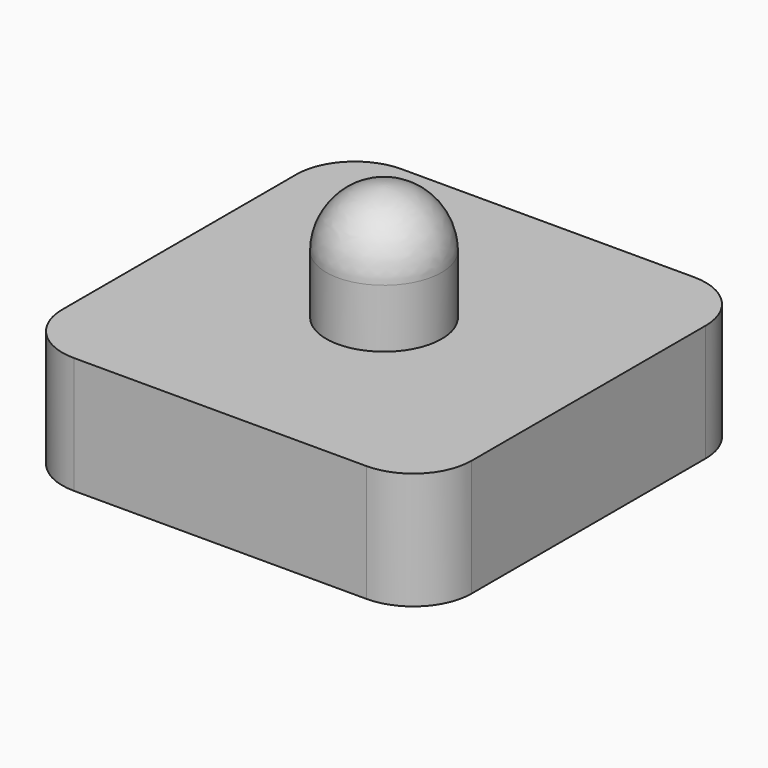
from build123d import *

# Parameters (mm, degrees)
F0_W     = 70
F0_H     = 70
F1_DEPTH = 20
F4_R     = 10


with BuildPart() as f1:
    # F0 (on Top) → F1 (new body)
    with BuildSketch(Plane.XY):
        Rectangle(F0_W, F0_H)
    extrude(amount=-F1_DEPTH)

    # F2 (on Front) → F3 (revolve)
    with BuildSketch(Plane.XZ):
        with BuildLine():
            Line((0, 20), (0, 0))
            ThreePointArc((0, 0), (6.989421, 2.973394), (9.873842, 10))
            ThreePointArc((9.873842, 10), (6.989421, 17.026606), (0, 20))
        make_face()
        with BuildLine():
            ThreePointArc((9.873842, 10), (6.989421, 2.973394), (0, 0))
            Line((0, 0), (9.873842, 0))
            Line((9.873842, 0), (9.873842, 10))
        make_face()
    revolve(axis=Axis((0, 0, 10), (0, 0, 1)))

    # F4
    f4_edges = [f1.edges().sort_by_distance(p)[0] for p in [
        (35, -35, -10),
        (-35, -35, -10),
        (35, 35, -10),
        (-35, 35, -10),
    ]]
    fillet(f4_edges, radius=F4_R)


solid = f1.part
